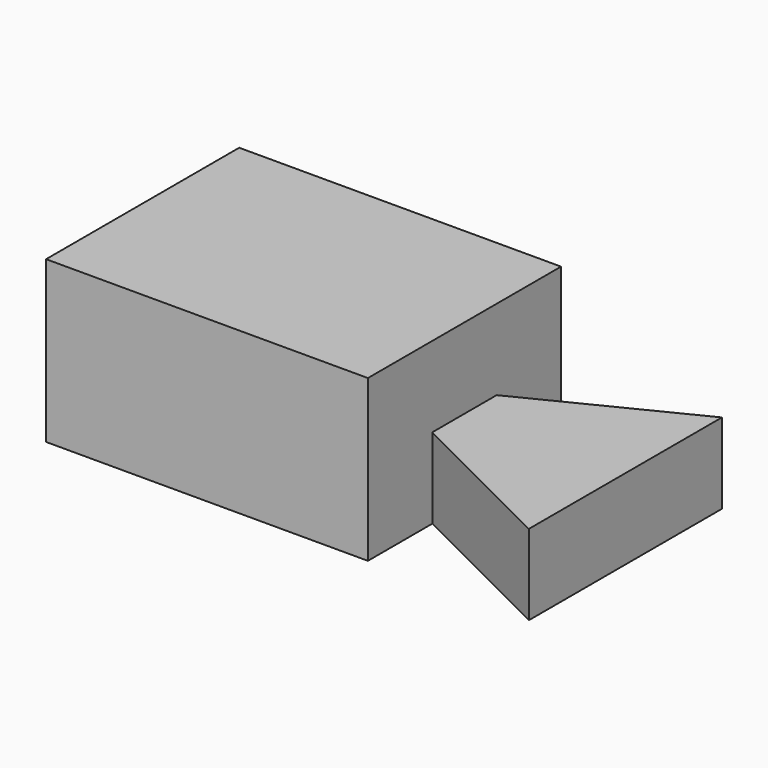
from build123d import *

# Parameters (mm, degrees)
F1_DEPTH = 76.2
F0_W     = 50.8
F0_H     = 25.4
F2_DEPTH = 76.2
F4_DEPTH = 25.4


with BuildPart() as f1:
    # F0 (on Front) → F1 (new body)
    with BuildSketch(Plane.XZ):
        Polygon((0, 50.8), (0, 0), (101.6, 0), (101.6, 25.4), (101.6, 50.8), align=None)
    extrude(amount=F1_DEPTH)

    # F0 (on Front) → F2 (join)
    with BuildSketch(Plane.XZ):
        with Locations((127, 12.7)):
            Rectangle(F0_W, F0_H)
    extrude(amount=F2_DEPTH)

    # F3 (on face) → F4 (cut)
    with BuildSketch(Plane.XY.offset(25.4)):
        Polygon((101.6, -50.8), (101.6, -76.2), (152.4, -76.2), align=None)
        Polygon((152.4, 0), (101.6, 0), (101.6, -25.4), align=None)
    extrude(amount=-F4_DEPTH, mode=Mode.SUBTRACT)


solid = f1.part
